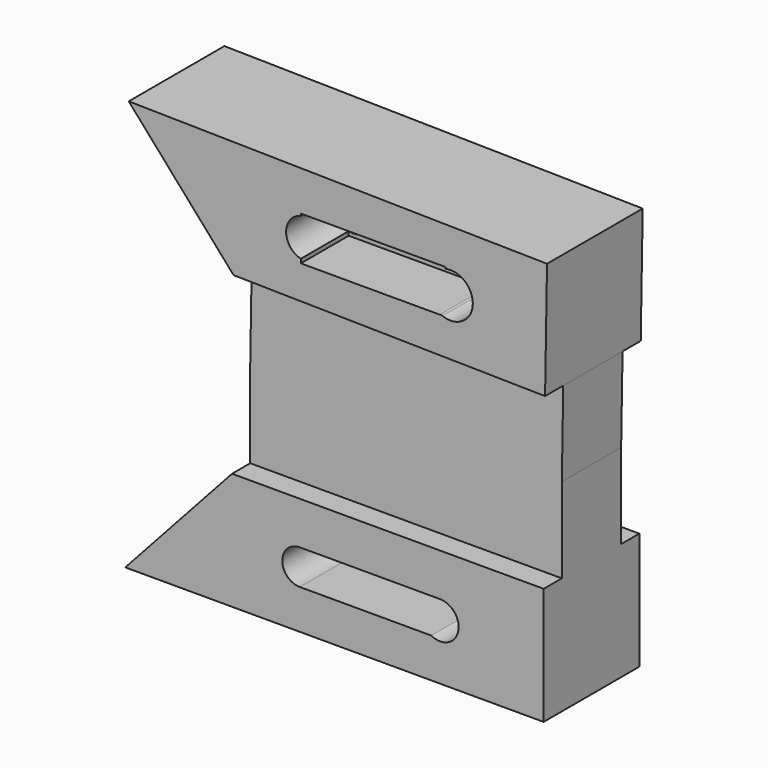
from build123d import *

# Parameters (mm, degrees)
F0_R     = 4.142858
F1_DEPTH = 12.7
F3_DEPTH = 36.068
F4_DEPTH = 7.874
F5_DEPTH = 7.874
F6_DEPTH = 12.7
F8_DEPTH = 38.354


with BuildPart() as f1:
    # F0 (on Front) → F1 (new body, symmetric)
    with BuildSketch(Plane.XZ):
        Polygon((23.873951, 16.499758), (-42.309441, 16.499758), (-64.985082, -8.388145), (23.873951, -8.388145), align=None)
        with Locations((-27.192343, 4.516693)):
            Circle(F0_R, mode=Mode.SUBTRACT)
        with BuildLine():
            ThreePointArc((1.935726, 8.94121), (3.594917, 9.242078), (5.254109, 8.94121))
            ThreePointArc((5.254109, 8.94121), (7.478832, 7.208249), (8.320303, 4.516693))
            ThreePointArc((8.320303, 4.516693), (7.395697, 1.708964), (4.983711, 0))
            ThreePointArc((4.983711, 0), (3.594917, -0.208692), (2.206124, 0))
            ThreePointArc((2.206124, 0), (-1.128308, 4.373854), (1.935726, 8.94121))
        make_face(mode=Mode.SUBTRACT)
        with BuildLine():
            ThreePointArc((8.320303, 4.516693), (7.478832, 7.208249), (5.254109, 8.94121))
            Line((5.254109, 8.94121), (1.935726, 8.94121))
            ThreePointArc((1.935726, 8.94121), (-1.128308, 4.373854), (2.206124, 0))
            Line((2.206124, 0), (4.983711, 0))
            ThreePointArc((4.983711, 0), (7.395697, 1.708964), (8.320303, 4.516693))
        make_face()
        with Locations((-27.192343, 4.516693)):
            Circle(F0_R)
        with BuildLine():
            Line((4.983711, 0), (2.206124, 0))
            ThreePointArc((2.206124, 0), (3.594917, -0.208692), (4.983711, 0))
        make_face()
        with BuildLine():
            Line((1.935726, 8.94121), (5.254109, 8.94121))
            ThreePointArc((5.254109, 8.94121), (3.594917, 9.242078), (1.935726, 8.94121))
        make_face()
    extrude(amount=F1_DEPTH, both=True)

    # F2 (on Front) → F3 (cut)
    with BuildSketch(Plane.XZ):
        with BuildLine():
            Line((1.877148, 7.4168), (-27.933743, 7.4168))
            ThreePointArc((-27.933743, 7.4168), (-31.642143, 3.7084), (-27.933743, 0))
            Line((-27.933743, 0), (0, 0))
            ThreePointArc((0, 0), (5.702478, 2.502684), (1.877148, 7.4168))
        make_face()
    extrude(amount=F3_DEPTH, mode=Mode.SUBTRACT)

    # F0 (on Front) → F4 (join, symmetric)
    with BuildSketch(Plane.XZ):
        Polygon((-42.309441, 35.119597), (-42.309441, 16.499758), (23.873951, 16.499758), (23.873951, 34.566533), align=None)
    extrude(amount=F4_DEPTH, both=True)

    # F0 (on Front) → F5 (join, symmetric)
    with BuildSketch(Plane.XZ):
        Polygon((-41.998268, 53.736836), (-42.309441, 35.119597), (23.873951, 34.566533), (24.175882, 52.630785), align=None)
    extrude(amount=F5_DEPTH, both=True)

    # F0 (on Front) → F6 (join, symmetric)
    with BuildSketch(Plane.XZ):
        Polygon((-64.254817, 79.000216), (-41.998268, 53.736836), (24.175882, 52.630785), (24.591806, 77.515212), align=None)
        with Locations((-26.683021, 65.465591)):
            Circle(F0_R, mode=Mode.SUBTRACT)
        with BuildLine():
            ThreePointArc((8.825325, 64.951077), (7.961227, 62.22716), (5.684958, 60.49945))
            ThreePointArc((5.684958, 60.49945), (4.02097, 60.226352), (2.367037, 60.554907))
            ThreePointArc((2.367037, 60.554907), (-0.620239, 65.17283), (2.786823, 69.490349))
            ThreePointArc((2.786823, 69.490349), (4.17891, 69.675802), (5.564021, 69.44393))
            ThreePointArc((5.564021, 69.44393), (7.924048, 67.726948), (8.825325, 64.951077))
        make_face(mode=Mode.SUBTRACT)
    extrude(amount=F6_DEPTH, both=True)

    # F7 (on Front) → F8 (cut)
    with BuildSketch(Plane.XZ):
        Polygon((-27.697399, 60.589042), (1.984779, 60.589042), (3.067527, 69.898891), (-27.697399, 69.898891), align=None)
    extrude(amount=F8_DEPTH, mode=Mode.SUBTRACT)


solid = f1.part
